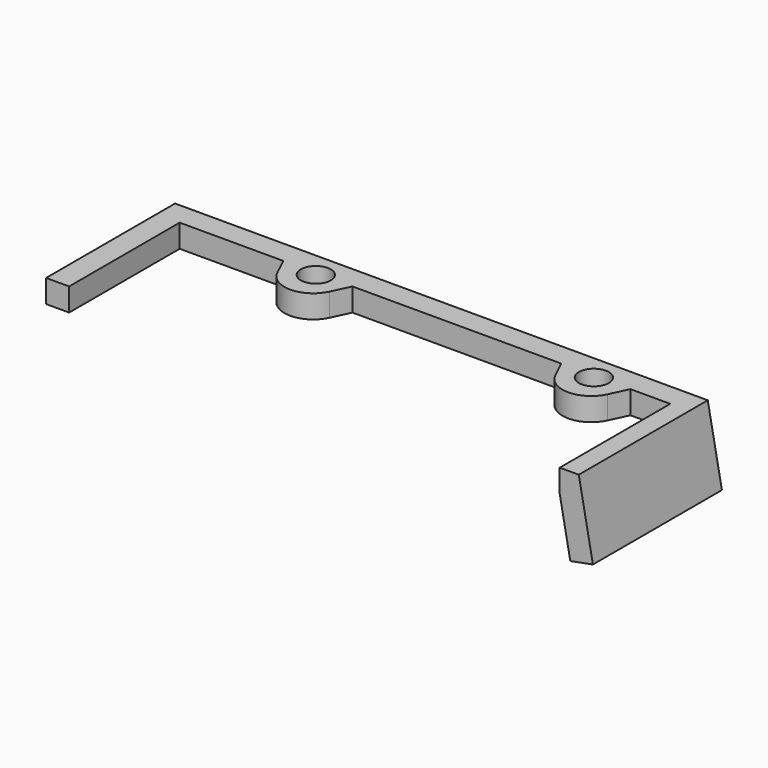
from build123d import *

# Parameters (mm, degrees)
PAD_DEPTH    = 10
PAD001_DEPTH = 60
SKETCH003_W  = 10
SKETCH003_H  = 10
PAD003_DEPTH = 60
PAD004_DEPTH = 10
SKETCH005_R  = 6.5
HOLE_DEPTH   = 34.201


with BuildPart() as part:
    # Sketch → Pad (new body)
    with BuildSketch(Plane.XZ):
        Polygon((0, 0), (223, 0), (227.6, -24.2), (237.424096, -22.33261), (231.278228, 10), (0, 10), align=None)
    extrude(amount=PAD_DEPTH)

    # Sketch001 → Pad001 (join)
    with BuildSketch(Plane.XZ.offset(10)):
        Polygon((223, 0), (227.6, -24.2), (237.424096, -22.33261), (231.278228, 10), (223, 10), align=None)
    extrude(amount=PAD001_DEPTH)

    # Sketch003 → Pad003 (join)
    with BuildSketch(Plane.XZ.offset(10)):
        with Locations((5, 5)):
            Rectangle(SKETCH003_W, SKETCH003_H)
    extrude(amount=PAD003_DEPTH)

    # Sketch004 → Pad004 (join)
    with BuildSketch(Plane.XY):
        with BuildLine():
            ThreePointArc((58.69456, -17.832638), (70, -25), (81.30544, -17.832638))
            Line((85, -10), (81.30544, -17.832638))
            Line((85, 0), (85, -10))
            Line((55, 0), (85, 0))
            Line((55, -10), (55, 0))
            Line((55, -10), (58.69456, -17.832638))
        make_face()
        with BuildLine():
            Line((179.39456, -17.832638), (175.7, -10))
            Line((175.7, -10), (175.7, 0))
            Line((175.7, 0), (205.7, 0))
            Line((205.7, 0), (205.7, -10))
            Line((205.7, -10), (202.00544, -17.832638))
            ThreePointArc((179.39456, -17.832638), (190.7, -25), (202.00544, -17.832638))
        make_face()
    extrude(amount=PAD004_DEPTH)

    # Sketch005 → Hole (cut, through all)
    with BuildSketch(Plane.XY.offset(10)):
        with Locations((70, -11.1)):
            Circle(SKETCH005_R)
        with Locations((190.7, -11.1)):
            Circle(SKETCH005_R)
    extrude(amount=-HOLE_DEPTH, mode=Mode.SUBTRACT)


solid = part.part
